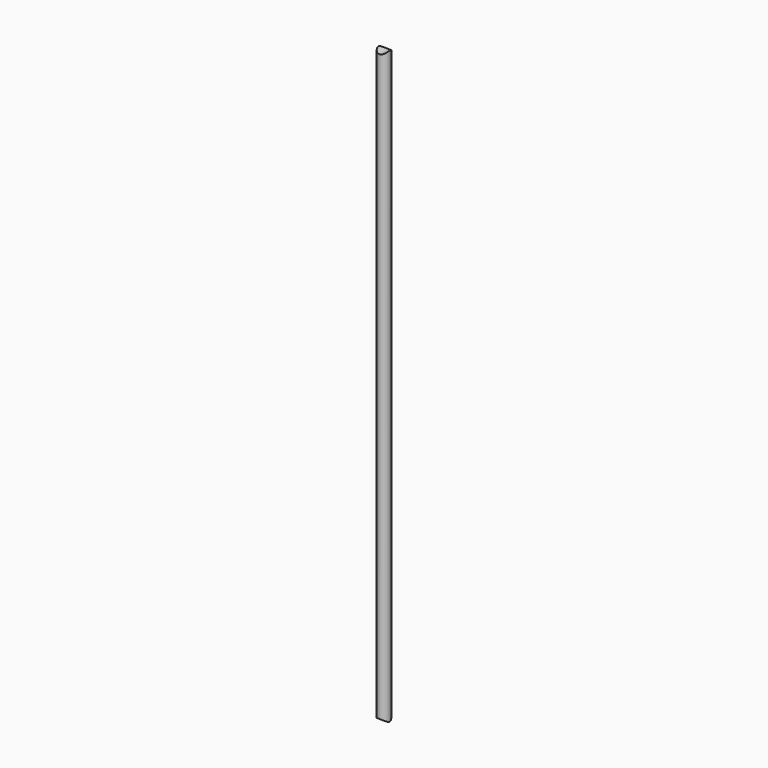
from build123d import *

# Parameters (mm, degrees)
F0_R     = 16.5
F1_DEPTH = 1739.5
F2_R     = 21
F3_DEPTH = 50


with BuildPart() as f1:
    # F0 (on Top) → F1 (new body)
    with BuildSketch(Plane.XY):
        Circle(F0_R)
    extrude(amount=F1_DEPTH)

    # F2 (on Front) → F3 (cut, symmetric)
    with BuildSketch(Plane.XZ):
        Circle(F2_R)
        with Locations((0, 1739.5)):
            Circle(F2_R)
    extrude(amount=F3_DEPTH, both=True, mode=Mode.SUBTRACT)


solid = f1.part
